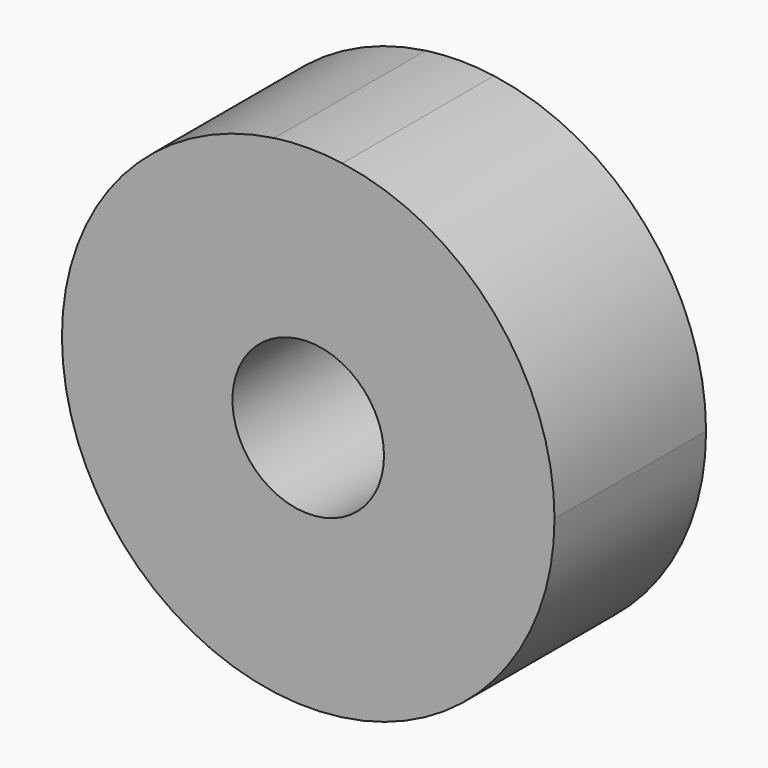
from build123d import *

# Parameters (mm, degrees)
F0_R     = 10
F1_DEPTH = 25


with BuildPart() as f1:
    # F0 (on Front) → F1 (new body)
    with BuildSketch(Plane.XZ):
        with BuildLine():
            ThreePointArc((-4.486879, 32.188786), (-21.335726, -24.516051), (32.5, 0))
            ThreePointArc((32.5, 0), (24.524747, 21.32573), (4.513121, 32.185117))
            Line((4.513121, 32.185117), (-4.486879, 32.185117))
            Line((-4.486879, 32.185117), (-4.486879, 32.188786))
        make_face()
        Circle(F0_R, mode=Mode.SUBTRACT)
        with BuildLine():
            Line((-4.486879, 32.185117), (4.513121, 32.185117))
            ThreePointArc((4.513121, 32.185117), (0.013249, 32.499997), (-4.486879, 32.188786))
            Line((-4.486879, 32.188786), (-4.486879, 32.185117))
        make_face()
    extrude(amount=F1_DEPTH)


solid = f1.part
